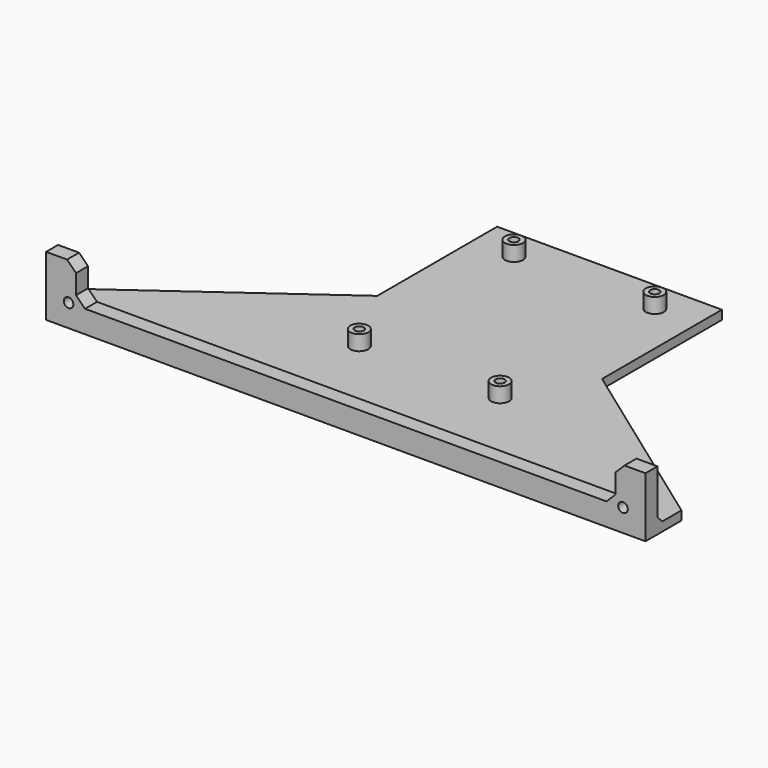
from build123d import *

# Parameters (mm, degrees)
PAD_DEPTH       = 3
PAD001_DEPTH    = 5
SKETCH002_R     = 1.6
POCKET_DEPTH    = 110.001
SKETCH003_R     = 3
SKETCH003_R_2   = 1.5
PAD002_DEPTH    = 5
CHAMFER_SIZE    = 3
CHAMFER001_SIZE = 2


with BuildPart() as part:
    # Sketch → Pad (new body)
    with BuildSketch(Plane.XY):
        Polygon((0, 0), (200, 0), (200, 15), (137.5, 60), (137.5, 110), (62.5, 110), (62.5, 60), (0, 15), align=None)
    extrude(amount=PAD_DEPTH)

    # Sketch001 (on Face1 of Pad) → Pad001 (join)
    with BuildSketch(Plane.XZ):
        Polygon((0, 3), (0, 20), (10, 20), (10, 7.5), (190, 7.5), (190, 20), (200, 20), (200, 3), align=None)
    extrude(amount=-PAD001_DEPTH)

    # Sketch002 (on Face14 of Pad001) → Pocket (cut, through all)
    with BuildSketch(Plane.XZ):
        with Locations((7.5, 7.5)):
            Circle(SKETCH002_R)
        with Locations((192.5, 7.5)):
            Circle(SKETCH002_R)
    extrude(amount=-POCKET_DEPTH, mode=Mode.SUBTRACT)

    # Sketch003 (on Face7 of Pocket) → Pad002 (join)
    with BuildSketch(Plane.XY.offset(3)):
        with Locations((76.5, 99.5)):
            Circle(SKETCH003_R)
        with Locations((76.5, 99.5)):
            Circle(SKETCH003_R_2, mode=Mode.SUBTRACT)
        with Locations((123.5, 99.5)):
            Circle(SKETCH003_R)
        with Locations((123.5, 99.5)):
            Circle(SKETCH003_R_2, mode=Mode.SUBTRACT)
        with Locations((123.5, 35)):
            Circle(SKETCH003_R)
        with Locations((123.5, 35)):
            Circle(SKETCH003_R_2, mode=Mode.SUBTRACT)
        with Locations((76.5, 35)):
            Circle(SKETCH003_R)
        with Locations((76.5, 35)):
            Circle(SKETCH003_R_2, mode=Mode.SUBTRACT)
    extrude(amount=PAD002_DEPTH)

    # Chamfer
    chamfer_edges = [part.edges().sort_by_distance(p)[0] for p in [
        (10, 2.5, 7.5),
        (190, 2.5, 7.5),
        (190, 2.5, 20),
        (10, 2.5, 20),
    ]]
    chamfer(chamfer_edges, length=CHAMFER_SIZE)

    # Chamfer001
    chamfer001_edges = [part.edges().sort_by_distance(p)[0] for p in [
        (100, 5, 3),
    ]]
    chamfer(chamfer001_edges, length=CHAMFER001_SIZE)


solid = part.part
